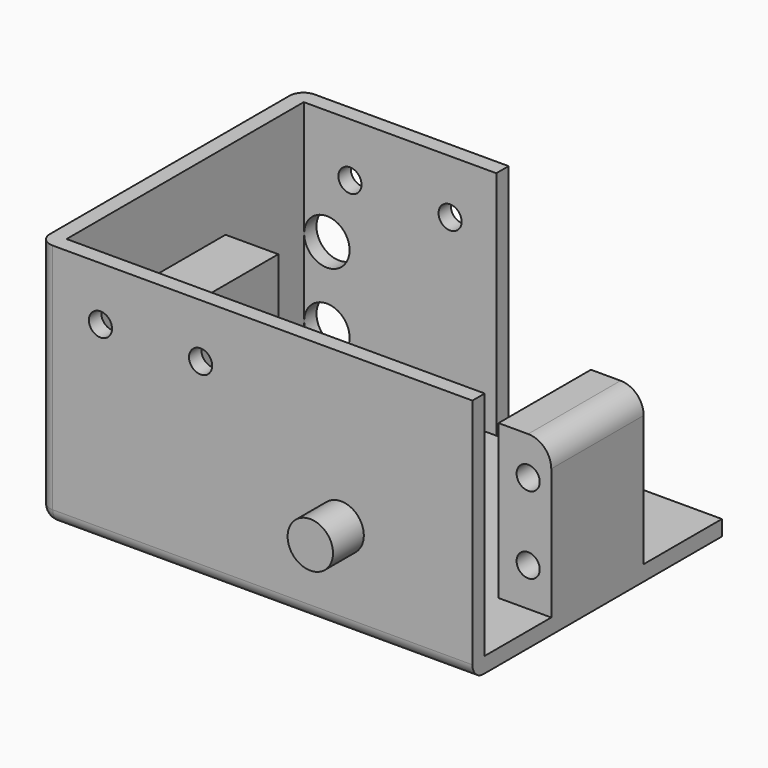
from build123d import *

# Parameters (mm, degrees)
SKETCH_W        = 54.3
SKETCH_H        = 38.5
PAD_DEPTH       = 2
SKETCH003_W     = 6.85
SKETCH003_H     = 15
PAD001_DEPTH    = 20
SKETCH001_W     = 54.3
SKETCH001_H     = 2
PAD003_DEPTH    = 32
SKETCH005_W     = 6.85
SKETCH005_H     = 15
PAD004_DEPTH    = 20
SKETCH002_R     = 2.95
PAD005_DEPTH    = 5
SKETCH007_W     = 25
SKETCH007_H     = 32
PAD006_DEPTH    = 2
SKETCH006_R     = 1.5
POCKET_DEPTH    = 15
SKETCH004_R     = 1.5
POCKET001_DEPTH = 20
SKETCH009_R     = 1.5
SKETCH009_R_2   = 2.95
POCKET002_DEPTH = 2
SKETCH008_R     = 1.5
POCKET003_DEPTH = 3
SKETCH010_W     = 42.5
SKETCH010_H     = 32
PAD007_DEPTH    = 2
FILLET_R        = 1.8
FILLET001_R     = 1.8
FILLET002_R     = 1.8
FILLET003_R     = 3


with BuildPart() as part:
    # Sketch → Pad (new body)
    with BuildSketch(Plane.XY):
        with Locations((27.15, 21.25)):
            Rectangle(SKETCH_W, SKETCH_H)
    extrude(amount=PAD_DEPTH)

    # Sketch003 → Pad001 (join)
    with BuildSketch(Plane.XY.offset(2)):
        with Locations((3.425, 20.3)):
            Rectangle(SKETCH003_W, SKETCH003_H)
    extrude(amount=PAD001_DEPTH)

    # Sketch001 → Pad003 (join)
    with BuildSketch(Plane.XY):
        with Locations((27.15, 1)):
            Rectangle(SKETCH001_W, SKETCH001_H)
    extrude(amount=PAD003_DEPTH)

    # Sketch005 (on Face5 of Pad003) → Pad004 (join)
    with BuildSketch(Plane.XY.offset(2)):
        with Locations((50.875, 20.3)):
            Rectangle(SKETCH005_W, SKETCH005_H)
    extrude(amount=PAD004_DEPTH)

    # Sketch002 (on Face18 of Pad004) → Pad005 (join)
    with BuildSketch(Plane.XZ):
        with Locations((37.25, 12)):
            Circle(SKETCH002_R)
    extrude(amount=PAD005_DEPTH)

    # Sketch007 (on Face1 of Pad005) → Pad006 (join)
    with BuildSketch(Plane(origin=(0, 40.5, 0), x_dir=(-1, 0, 0), z_dir=(0, 1, 0))):
        with Locations((-12.5, 16)):
            Rectangle(SKETCH007_W, SKETCH007_H)
    extrude(amount=PAD006_DEPTH)

    # Sketch006 (on Face14 of Pad006) → Pocket (cut)
    with BuildSketch(Plane.XZ.offset(-12.8)):
        with Locations((51.3, 17)):
            Circle(SKETCH006_R)
        with Locations((51.3, 7)):
            Circle(SKETCH006_R)
    extrude(amount=-POCKET_DEPTH, mode=Mode.SUBTRACT)

    # Sketch004 (on Face16 of Pocket) → Pocket001 (cut)
    with BuildSketch(Plane.XZ.offset(-12.8)):
        with Locations((3, 17)):
            Circle(SKETCH004_R)
        with Locations((3, 7)):
            Circle(SKETCH004_R)
    extrude(amount=-POCKET001_DEPTH, mode=Mode.SUBTRACT)

    # Sketch009 (on Face20 of Pocket001) → Pocket002 (cut)
    with BuildSketch(Plane(origin=(0, 42.5, 0), x_dir=(-1, 0, 0), z_dir=(0, 1, 0))):
        with Locations((-6, 25)):
            Circle(SKETCH009_R)
        with Locations((-19, 25)):
            Circle(SKETCH009_R)
        with Locations((-3, 7)):
            Circle(SKETCH009_R_2)
        with Locations((-3, 17)):
            Circle(SKETCH009_R_2)
    extrude(amount=-POCKET002_DEPTH, mode=Mode.SUBTRACT)

    # Sketch008 → Pocket003 (cut)
    with BuildSketch(Plane.XZ):
        with Locations((19, 25)):
            Circle(SKETCH008_R)
        with Locations((6, 25)):
            Circle(SKETCH008_R)
    extrude(amount=-POCKET003_DEPTH, mode=Mode.SUBTRACT)

    # Sketch010 (on Face8 of Pocket003) → Pad007 (join)
    with BuildSketch(Plane(origin=(0, 0, 0), x_dir=(0, -1, 0), z_dir=(-1, 0, 0))):
        with Locations((-21.25, 16)):
            Rectangle(SKETCH010_W, SKETCH010_H)
    extrude(amount=PAD007_DEPTH)

    # Fillet
    fillet_edges = [part.edges().sort_by_distance(p)[0] for p in [
        (-2, 42.5, 16),
    ]]
    fillet(fillet_edges, radius=FILLET_R)

    # Fillet001
    fillet001_edges = [part.edges().sort_by_distance(p)[0] for p in [
        (-2, 0, 16),
    ]]
    fillet(fillet001_edges, radius=FILLET001_R)

    # Fillet002
    fillet002_edges = [part.edges().sort_by_distance(p)[0] for p in [
        (-2, 21.25, 0),
    ]]
    fillet(fillet002_edges, radius=FILLET002_R)

    # Fillet003
    fillet003_edges = [part.edges().sort_by_distance(p)[0] for p in [
        (54.3, 20.3, 22),
    ]]
    fillet(fillet003_edges, radius=FILLET003_R)


solid = part.part
